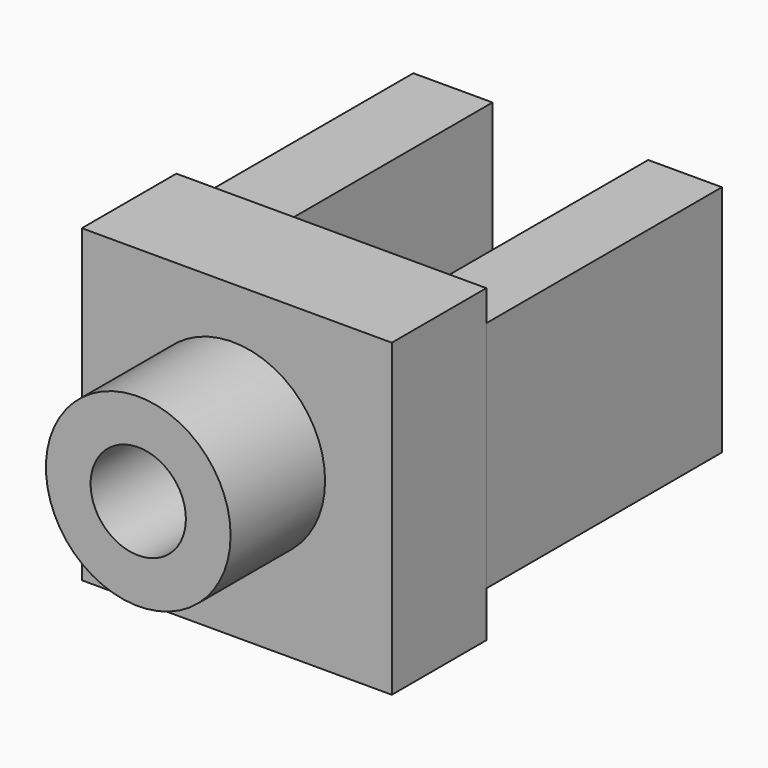
from build123d import *

# Parameters (mm, degrees)
F0_W     = 33.3248
F0_H     = 66.650534
F1_DEPTH = 25.4
F2_W     = 17.029665
F2_H     = 50.208108
F2_W_2   = 15.855189
F3_DEPTH = 63.5
F4_R     = 19.855384
F4_R_2   = 10.242902
F5_DEPTH = 50.8


with BuildPart() as f1:
    # F0 (on Front) → F1 (new body)
    with BuildSketch(Plane.XZ):
        with Locations((-77.588384, -2.495724)):
            Rectangle(F0_W, F0_H)
        with Locations((-110.913184, -2.495724)):
            Rectangle(F0_W, F0_H)
    extrude(amount=F1_DEPTH)

    # F2 (on Front) → F3 (join)
    with BuildSketch(Plane.XZ):
        with Locations((-118.91045, -1.027652)):
            Rectangle(F2_W, F2_H)
        with Locations((-68.995954, -1.027652)):
            Rectangle(F2_W_2, F2_H)
    extrude(amount=-F3_DEPTH)

    # F4 (on Front) → F5 (join)
    with BuildSketch(Plane.XZ):
        with Locations((-95.127657, 0)):
            Circle(F4_R)
        with Locations((-95.127657, 0)):
            Circle(F4_R_2, mode=Mode.SUBTRACT)
    extrude(amount=F5_DEPTH)


solid = f1.part
